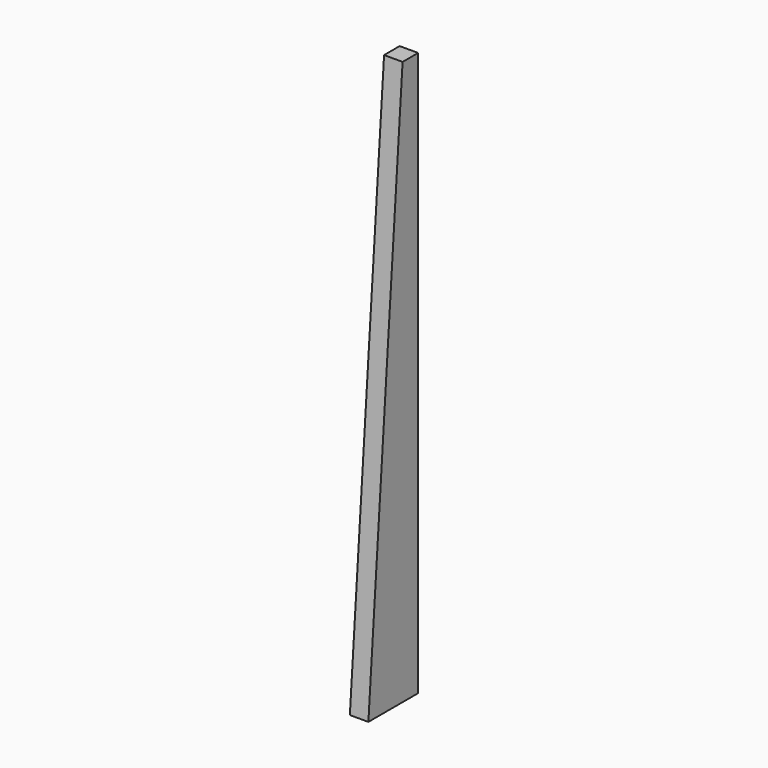
from build123d import *

# Parameters (mm, degrees)
F1_DEPTH       = 4.765
F4_D           = 5.5
F4_DEPTH       = 8
F4_TIP         = 1.6523667023
F4_ON_F3_D     = 5.5
F4_ON_F3_DEPTH = 8
F4_ON_F3_TIP   = 1.6523667023


with BuildPart() as f1:
    # F0 (on Right) → F1 (new body, symmetric)
    with BuildSketch(Plane.YZ):
        Polygon((-32, 0), (0, 0), (0, 290), (-10, 290), align=None)
    extrude(amount=F1_DEPTH, both=True)

    # F4
    with Locations(Plane(origin=(0, 0, 0), x_dir=(-1, 0, 0), z_dir=(0, 1, 0))):
        with Locations((0, 60), (0, 140), (0, 220)):
            Hole(F4_D / 2, depth=F4_DEPTH)
            with Locations((0, 0, -(F4_DEPTH + F4_TIP / 2))):  # 118° drill point
                Cone(0, F4_D / 2, F4_TIP, mode=Mode.SUBTRACT)

    # F4 on F3
    with Locations(Plane(origin=(0, 0, 0), x_dir=(1, 0, 0), z_dir=(0, 0, -1))):
        with Locations((0, 22), (0, 10)):
            Hole(F4_ON_F3_D / 2, depth=F4_ON_F3_DEPTH)
            with Locations((0, 0, -(F4_ON_F3_DEPTH + F4_ON_F3_TIP / 2))):  # 118° drill point
                Cone(0, F4_ON_F3_D / 2, F4_ON_F3_TIP, mode=Mode.SUBTRACT)


solid = f1.part
